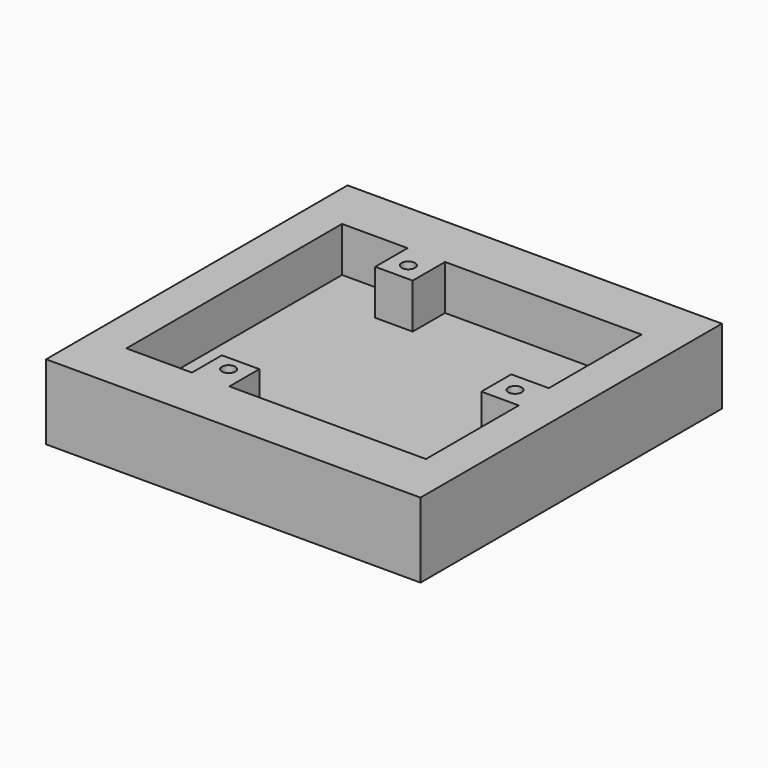
from build123d import *

# Parameters (mm, degrees)
F1_W     = 63.5
F1_H     = 63.894108
F3_DEPTH = 12.7
F2_R     = 1.1303
F4_DEPTH = 7.62


with BuildPart() as f3:
    # F1 (on Top) → F3 (new body)
    with BuildSketch(Plane.XY):
        Rectangle(F1_W, F1_H)
    extrude(amount=-F3_DEPTH)

    # F2 (on Top) → F4 (cut)
    with BuildSketch(Plane.XY):
        Polygon((-14.2875, 22.86), (-25.4, 22.86), (-25.4, -22.86), (-14.2875, -22.86), (-14.2875, -16.51), (-7.9375, -16.51), (-7.9375, -22.86), (25.4, -22.86), (25.4, -3.175), (19.05, -3.175), (19.05, 3.175), (25.4, 3.175), (25.4, 22.86), (-7.9375, 22.86), (-7.9375, 16.002), (-14.2875, 16.002), align=None)
        with Locations((22.225, 0)):
            Circle(F2_R)
        with Locations((-11.111924, -19.048618)):
            Circle(F2_R)
        with Locations((-11.111924, 19.053059)):
            Circle(F2_R)
    extrude(amount=-F4_DEPTH, mode=Mode.SUBTRACT)


solid = f3.part
